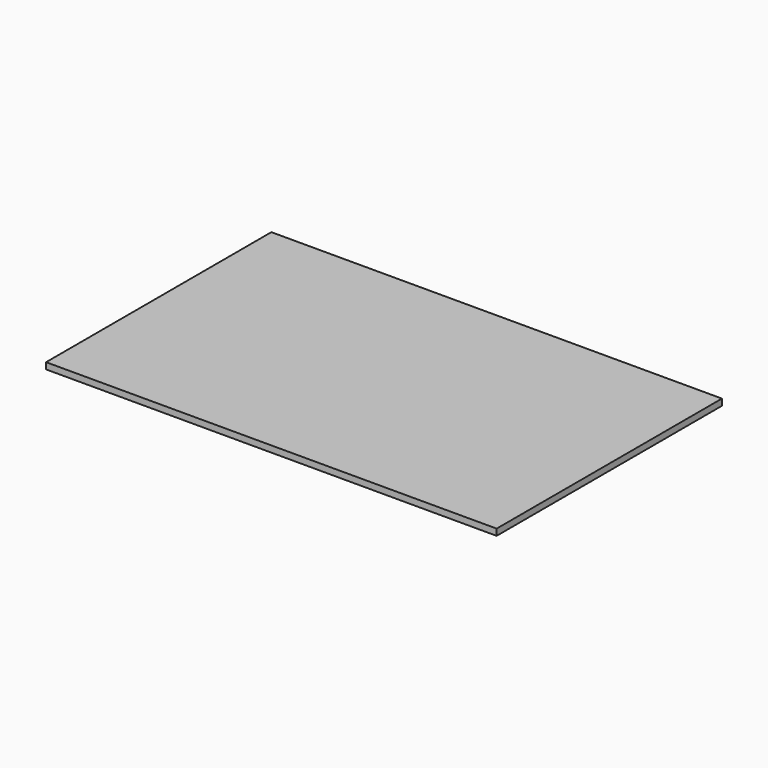
from build123d import *

# Parameters (mm, degrees)
F0_W     = 1200
F0_H     = 17
F1_DEPTH = 375
F2_W     = 45
F2_H     = 90
F3_DEPTH = 848
F5_W     = 45
F5_H     = 90
F6_DEPTH = 1800


with BuildPart() as f1:
    # F0 (on Front) → F1 (new body, symmetric)
    with BuildSketch(Plane.XZ):
        with Locations((-51.825875, 0)):
            Rectangle(F0_W, F0_H)
    extrude(amount=F1_DEPTH, both=True)


with BuildPart() as f3:
    # F2 (on Right) → F3 (new body, symmetric)
    with BuildSketch(Plane.YZ):
        with Locations((-351.989888, -54.616934)):
            Rectangle(F2_W, F2_H)
    extrude(amount=F3_DEPTH, both=True)


with BuildPart() as f6:
    # F5 (on face) → F6 (new body)
    with BuildSketch(Plane.YZ.offset(548.174125)):
        with Locations((-352.5, -53.6)):
            Rectangle(F5_W, F5_H)
    extrude(amount=-F6_DEPTH)


solid = f1.part
